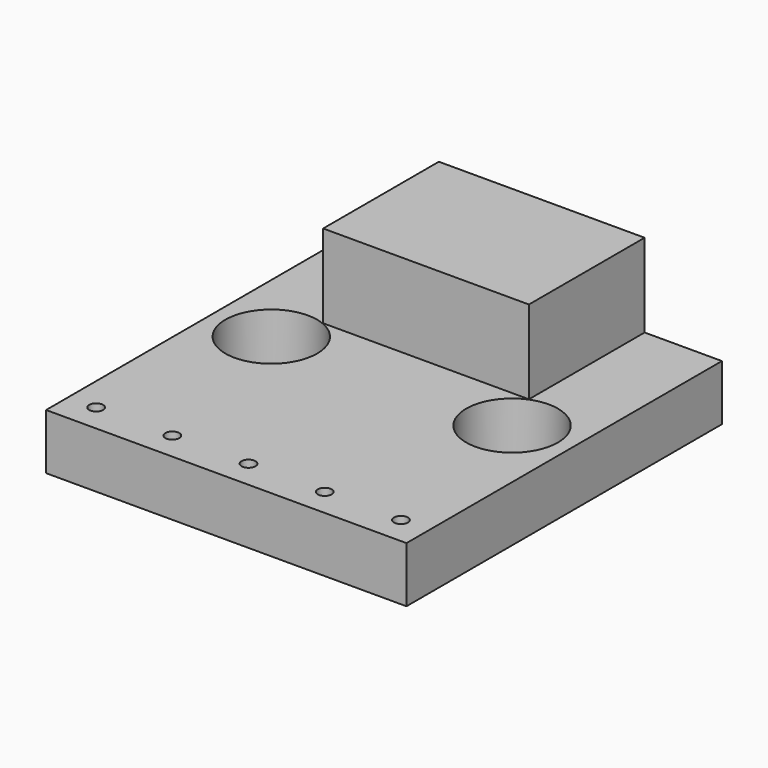
from build123d import *

# Parameters (mm, degrees)
EXTRUDE001_DEPTH = 3
SKETCH_W         = 12.96
SKETCH_H         = 14.18
SKETCH_R         = 0.25
SKETCH_R_2       = 1.65
EXTRUDE_DEPTH    = 2


with BuildPart() as obj1:
    # Sketch001 → Extrude001 (new body)
    with BuildSketch(Plane.XY):
        Polygon((10.18, 14.18), (10.18, 8.98), (2.78, 8.98), (2.78, 14.18), (6.48, 14.18), align=None)
    extrude(amount=EXTRUDE001_DEPTH)


with BuildPart() as obj1_1:
    # Extrude001 placement: moved
    add(obj1.part.moved(Location((0, 0, 2))))


with BuildPart() as obj2:
    # Sketch → Extrude (new body)
    with BuildSketch(Plane.XY):
        with Locations((6.48, 7.09)):
            Rectangle(SKETCH_W, SKETCH_H)
        with Locations((1, 1)):
            Circle(SKETCH_R, mode=Mode.SUBTRACT)
        with Locations((3.74, 1)):
            Circle(SKETCH_R, mode=Mode.SUBTRACT)
        with Locations((6.48, 1)):
            Circle(SKETCH_R, mode=Mode.SUBTRACT)
        with Locations((9.22, 1)):
            Circle(SKETCH_R, mode=Mode.SUBTRACT)
        with Locations((11.96, 1)):
            Circle(SKETCH_R, mode=Mode.SUBTRACT)
        with Locations((2.15, 7.435)):
            Circle(SKETCH_R_2, mode=Mode.SUBTRACT)
        with Locations((10.81, 7.435)):
            Circle(SKETCH_R_2, mode=Mode.SUBTRACT)
    extrude(amount=EXTRUDE_DEPTH)

    # Fusion: union obj1
    add(obj1_1.part)


with BuildPart() as obj2_1:
    # Fusion placement: moved
    add(obj2.part.moved(Location((-20, 0, 0))))


solid = obj2_1.part
